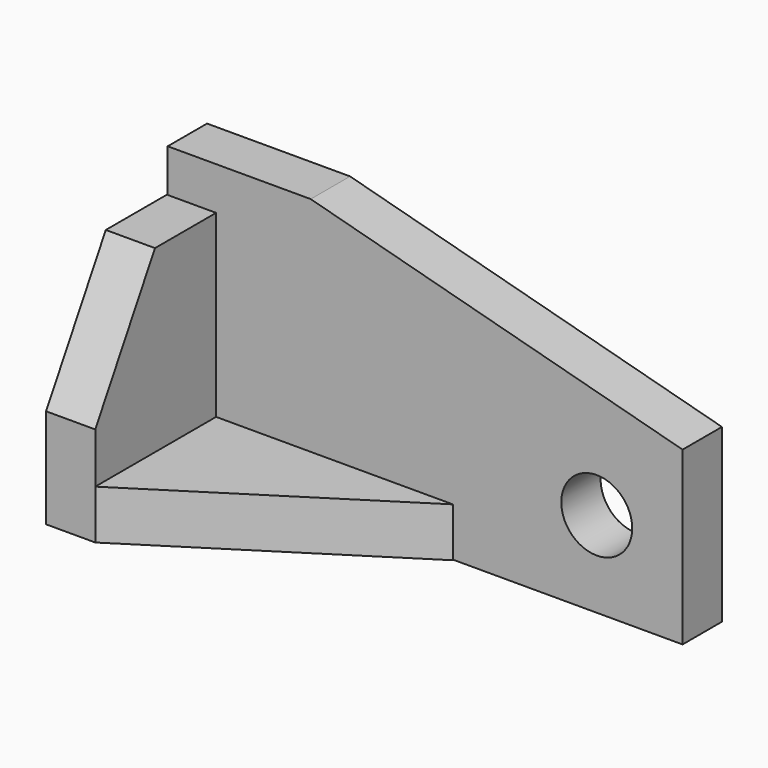
from build123d import *

# Parameters (mm, degrees)
F0_R     = 7.874
F1_DEPTH = 10.922
F2_W     = 52.578
F2_H     = 10.922
F2_W_2   = 10.922
F2_H_2   = 28.702
F3_DEPTH = 44.45
F5_DEPTH = 10.922
F6_SIZE2 = 16.571107
F6_SIZE  = 28.702


with BuildPart() as f1:
    # F0 (on Front) → F1 (new body)
    with BuildSketch(Plane.XZ):
        Polygon((22.08654, -60.198), (22.08654, -22.119206), (-60.46346, 0), (-92.21346, 0), (-92.21346, -60.198), (3.03654, -60.198), align=None)
        with Locations((3.03654, -41.148)):
            Circle(F0_R, mode=Mode.SUBTRACT)
    extrude(amount=F1_DEPTH)

    # F2 (on Front) → F3 (join)
    with BuildSketch(Plane.XZ):
        Polygon((-92.392281, -38.222038), (-92.392281, -60.320038), (-81.470281, -60.320038), (-81.470281, -49.398038), (-81.470281, -38.222038), align=None)
        with Locations((-55.181281, -54.859038)):
            Rectangle(F2_W, F2_H)
        with Locations((-86.931281, -23.871038)):
            Rectangle(F2_W_2, F2_H_2)
    extrude(amount=F3_DEPTH)

    # F4 (on face) → F5 (cut)
    with BuildSketch(Plane.XY.offset(-49.398038)):
        Polygon((-28.892281, -44.45), (-28.892281, -10.922), (-81.470281, -44.45), align=None)
    extrude(amount=-F5_DEPTH, mode=Mode.SUBTRACT)

    # F6
    f6_edges = [f1.edges().sort_by_distance(p)[0] for p in [
        (-86.931281, -44.45, -9.520038),
    ]]
    chamfer(f6_edges, length=F6_SIZE, length2=F6_SIZE2)


solid = f1.part
